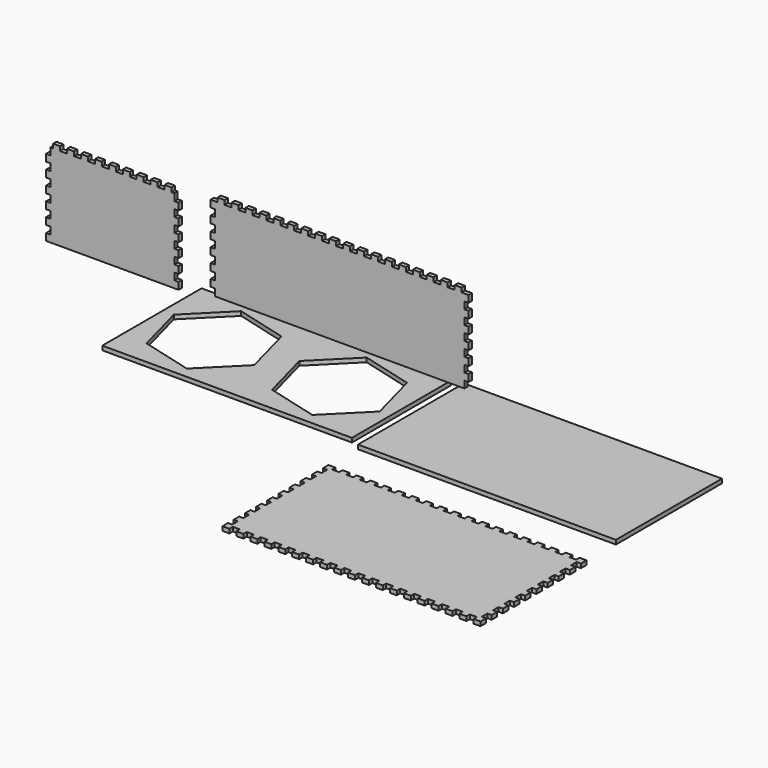
from build123d import *

# Parameters (mm, degrees)
F0_W     = 179
F0_H     = 89
F1_DEPTH = 3
F2_W     = 185
F2_H     = 95
F3_DEPTH = 3
F5_DEPTH = 3
F7_DEPTH = 3
F9_DEPTH = 3


with BuildPart() as f1:
    # F0 (on Top) → F1 (new body)
    with BuildSketch(Plane.XY):
        Rectangle(F0_W, F0_H)
        Polygon((-18.129942, 26.870058), (-8.294819, -9.835124), (-35.164876, -36.705181), (-71.870058, -26.870058), (-81.705181, 9.835124), (-54.835124, 36.705181), align=None, mode=Mode.SUBTRACT)
        Polygon((71.870058, 26.870058), (81.705181, -9.835124), (54.835124, -36.705181), (18.129942, -26.870058), (8.294819, 9.835124), (35.164876, 36.705181), align=None, mode=Mode.SUBTRACT)
    extrude(amount=F1_DEPTH)


with BuildPart() as f3:
    # F2 (on Top) → F3 (new body)
    with BuildSketch(Plane.XY):
        with Locations((189.71203, -1.240794)):
            Rectangle(F2_W, F2_H)
    extrude(amount=F3_DEPTH)


with BuildPart() as f5:
    # F4 (on Top) → F5 (new body)
    with BuildSketch(Plane.XY):
        Polygon((99.85986, -168.444727), (99.85986, -173.444727), (104.85986, -173.444727), (104.85986, -170.444727), (109.85986, -170.444727), (109.85986, -173.444727), (114.85986, -173.444727), (114.85986, -170.444727), (119.85986, -170.444727), (119.85986, -173.444727), (124.85986, -173.444727), (124.85986, -170.444727), (129.85986, -170.444727), (129.85986, -173.444727), (134.85986, -173.444727), (134.85986, -170.444727), (139.85986, -170.444727), (139.85986, -173.444727), (144.85986, -173.444727), (144.85986, -170.444727), (149.85986, -170.444727), (149.85986, -173.444727), (154.85986, -173.444727), (154.85986, -170.444727), (159.85986, -170.444727), (159.85986, -173.444727), (164.85986, -173.444727), (164.85986, -170.444727), (169.85986, -170.444727), (169.85986, -173.444727), (174.85986, -173.444727), (174.85986, -170.444727), (179.85986, -170.444727), (179.85986, -173.444727), (184.85986, -173.444727), (184.85986, -170.444727), (189.85986, -170.444727), (189.85986, -173.444727), (194.85986, -173.444727), (194.85986, -170.444727), (199.85986, -170.444727), (199.85986, -173.444727), (204.85986, -173.444727), (204.85986, -170.444727), (209.85986, -170.444727), (209.85986, -173.444727), (214.85986, -173.444727), (214.85986, -170.444727), (219.85986, -170.444727), (219.85986, -173.444727), (224.85986, -173.444727), (224.85986, -170.444727), (229.85986, -170.444727), (229.85986, -173.444727), (234.85986, -173.444727), (234.85986, -170.444727), (239.85986, -170.444727), (239.85986, -173.444727), (244.85986, -173.444727), (244.85986, -170.444727), (249.85986, -170.444727), (249.85986, -173.444727), (254.85986, -173.444727), (254.85986, -170.444727), (259.85986, -170.444727), (259.85986, -173.444727), (264.85986, -173.444727), (264.85986, -170.444727), (269.85986, -170.444727), (269.85986, -173.444727), (274.85986, -173.444727), (274.85986, -170.444727), (279.85986, -170.444727), (279.85986, -173.444727), (284.85986, -173.444727), (284.85986, -168.444727), (281.85986, -168.444727), (281.85986, -163.444727), (284.85986, -163.444727), (284.85986, -158.444727), (281.85986, -158.444727), (281.85986, -153.444727), (284.85986, -153.444727), (284.85986, -148.444727), (281.85986, -148.444727), (281.85986, -143.444727), (284.85986, -143.444727), (284.85986, -138.444727), (281.85986, -138.444727), (281.85986, -133.444727), (284.85986, -133.444727), (284.85986, -128.444727), (281.85986, -128.444727), (281.85986, -123.444727), (284.85986, -123.444727), (284.85986, -118.444727), (281.85986, -118.444727), (281.85986, -113.444727), (284.85986, -113.444727), (284.85986, -108.444727), (281.85986, -108.444727), (281.85986, -103.444727), (284.85986, -103.444727), (284.85986, -98.444727), (281.85986, -98.444727), (281.85986, -93.444727), (284.85986, -93.444727), (284.85986, -88.444727), (281.85986, -88.444727), (281.85986, -83.444727), (284.85986, -83.444727), (284.85986, -78.444727), (279.85986, -78.444727), (279.85986, -81.444727), (274.85986, -81.444727), (274.85986, -78.444727), (269.85986, -78.444727), (269.85986, -81.444727), (264.85986, -81.444727), (264.85986, -78.444727), (259.85986, -78.444727), (259.85986, -81.444727), (254.85986, -81.444727), (254.85986, -78.444727), (249.85986, -78.444727), (249.85986, -81.444727), (244.85986, -81.444727), (244.85986, -78.444727), (239.85986, -78.444727), (239.85986, -81.444727), (234.85986, -81.444727), (234.85986, -78.444727), (229.85986, -78.444727), (229.85986, -81.444727), (224.85986, -81.444727), (224.85986, -78.444727), (219.85986, -78.444727), (219.85986, -81.444727), (214.85986, -81.444727), (214.85986, -78.444727), (209.85986, -78.444727), (209.85986, -81.444727), (204.85986, -81.444727), (204.85986, -78.444727), (199.85986, -78.444727), (199.85986, -81.444727), (194.85986, -81.444727), (194.85986, -78.444727), (189.85986, -78.444727), (189.85986, -81.444727), (184.85986, -81.444727), (184.85986, -78.444727), (179.85986, -78.444727), (179.85986, -81.444727), (174.85986, -81.444727), (174.85986, -78.444727), (169.85986, -78.444727), (169.85986, -81.444727), (164.85986, -81.444727), (164.85986, -78.444727), (159.85986, -78.444727), (159.85986, -81.444727), (154.85986, -81.444727), (154.85986, -78.444727), (149.85986, -78.444727), (149.85986, -81.444727), (144.85986, -81.444727), (144.85986, -78.444727), (139.85986, -78.444727), (139.85986, -81.444727), (134.85986, -81.444727), (134.85986, -78.444727), (129.85986, -78.444727), (129.85986, -81.444727), (124.85986, -81.444727), (124.85986, -78.444727), (119.85986, -78.444727), (119.85986, -81.444727), (114.85986, -81.444727), (114.85986, -78.444727), (109.85986, -78.444727), (109.85986, -81.444727), (104.85986, -81.444727), (104.85986, -78.444727), (99.85986, -78.444727), (99.85986, -83.444727), (102.85986, -83.444727), (102.85986, -88.444727), (99.85986, -88.444727), (99.85986, -93.444727), (102.85986, -93.444727), (102.85986, -98.444727), (99.85986, -98.444727), (99.85986, -103.444727), (102.85986, -103.444727), (102.85986, -108.444727), (99.85986, -108.444727), (99.85986, -113.444727), (102.85986, -113.444727), (102.85986, -118.444727), (99.85986, -118.444727), (99.85986, -123.444727), (102.85986, -123.444727), (102.85986, -128.444727), (99.85986, -128.444727), (99.85986, -133.444727), (102.85986, -133.444727), (102.85986, -138.444727), (99.85986, -138.444727), (99.85986, -143.444727), (102.85986, -143.444727), (102.85986, -148.444727), (99.85986, -148.444727), (99.85986, -153.444727), (102.85986, -153.444727), (102.85986, -158.444727), (99.85986, -158.444727), (99.85986, -163.444727), (102.85986, -163.444727), (102.85986, -168.444727), align=None)
    extrude(amount=F5_DEPTH)


with BuildPart() as f7:
    # F6 (on Front) → F7 (new body)
    with BuildSketch(Plane.XZ):
        Polygon((-40.04842, 92.707401), (-45.04842, 92.707401), (-45.04842, 87.707401), (-42.04842, 87.707401), (-42.04842, 82.707401), (-45.04842, 82.707401), (-45.04842, 77.707401), (-42.04842, 77.707401), (-42.04842, 72.707401), (-45.04842, 72.707401), (-45.04842, 67.707401), (-42.04842, 67.707401), (-42.04842, 62.707401), (-45.04842, 62.707401), (-45.04842, 57.707401), (-42.04842, 57.707401), (-42.04842, 52.707401), (-45.04842, 52.707401), (-45.04842, 47.707401), (-42.04842, 47.707401), (-42.04842, 42.707401), (-45.04842, 42.707401), (-45.04842, 37.707401), (-42.04842, 37.707401), (-42.04842, 32.707401), (136.95158, 32.707401), (136.95158, 37.707401), (139.95158, 37.707401), (139.95158, 42.707401), (136.95158, 42.707401), (136.95158, 47.707401), (139.95158, 47.707401), (139.95158, 52.707401), (136.95158, 52.707401), (136.95158, 57.707401), (139.95158, 57.707401), (139.95158, 62.707401), (136.95158, 62.707401), (136.95158, 67.707401), (139.95158, 67.707401), (139.95158, 72.707401), (136.95158, 72.707401), (136.95158, 77.707401), (139.95158, 77.707401), (139.95158, 82.707401), (136.95158, 82.707401), (136.95158, 87.707401), (139.95158, 87.707401), (139.95158, 92.707401), (134.95158, 92.707401), (134.95158, 95.707401), (129.95158, 95.707401), (129.95158, 92.707401), (124.95158, 92.707401), (124.95158, 95.707401), (119.95158, 95.707401), (119.95158, 92.707401), (114.95158, 92.707401), (114.95158, 95.707401), (109.95158, 95.707401), (109.95158, 92.707401), (104.95158, 92.707401), (104.95158, 95.707401), (99.95158, 95.707401), (99.95158, 92.707401), (94.95158, 92.707401), (94.95158, 95.707401), (89.95158, 95.707401), (89.95158, 92.707401), (84.95158, 92.707401), (84.95158, 95.707401), (79.95158, 95.707401), (79.95158, 92.707401), (74.95158, 92.707401), (74.95158, 95.707401), (69.95158, 95.707401), (69.95158, 92.707401), (64.95158, 92.707401), (64.95158, 95.707401), (59.95158, 95.707401), (59.95158, 92.707401), (54.95158, 92.707401), (54.95158, 95.707401), (49.95158, 95.707401), (49.95158, 92.707401), (44.95158, 92.707401), (44.95158, 95.707401), (39.95158, 95.707401), (39.95158, 92.707401), (34.95158, 92.707401), (34.95158, 95.707401), (29.95158, 95.707401), (29.95158, 92.707401), (24.95158, 92.707401), (24.95158, 95.707401), (19.95158, 95.707401), (19.95158, 92.707401), (14.95158, 92.707401), (14.95158, 95.707401), (9.95158, 95.707401), (9.95158, 92.707401), (4.95158, 92.707401), (4.95158, 95.707401), (-0.04842, 95.707401), (-0.04842, 92.707401), (-5.04842, 92.707401), (-5.04842, 95.707401), (-10.04842, 95.707401), (-10.04842, 92.707401), (-15.04842, 92.707401), (-15.04842, 95.707401), (-20.04842, 95.707401), (-20.04842, 92.707401), (-25.04842, 92.707401), (-25.04842, 95.707401), (-30.04842, 95.707401), (-30.04842, 92.707401), (-35.04842, 92.707401), (-35.04842, 95.707401), (-40.04842, 95.707401), align=None)
    extrude(amount=F7_DEPTH)


with BuildPart() as f9:
    # F8 (on Front) → F9 (new body)
    with BuildSketch(Plane.XZ):
        Polygon((-158.002626, 91.32189), (-158.002626, 88.32189), (-160.002626, 88.32189), (-160.002626, 83.32189), (-163.002626, 83.32189), (-163.002626, 78.32189), (-160.002626, 78.32189), (-160.002626, 73.32189), (-163.002626, 73.32189), (-163.002626, 68.32189), (-160.002626, 68.32189), (-160.002626, 63.32189), (-163.002626, 63.32189), (-163.002626, 58.32189), (-160.002626, 58.32189), (-160.002626, 53.32189), (-163.002626, 53.32189), (-163.002626, 48.32189), (-160.002626, 48.32189), (-160.002626, 43.32189), (-163.002626, 43.32189), (-163.002626, 38.32189), (-160.002626, 38.32189), (-160.002626, 33.32189), (-163.002626, 33.32189), (-163.002626, 28.32189), (-68.002626, 28.32189), (-68.002626, 33.32189), (-71.002626, 33.32189), (-71.002626, 38.32189), (-68.002626, 38.32189), (-68.002626, 43.32189), (-71.002626, 43.32189), (-71.002626, 48.32189), (-68.002626, 48.32189), (-68.002626, 53.32189), (-71.002626, 53.32189), (-71.002626, 58.32189), (-68.002626, 58.32189), (-68.002626, 63.32189), (-71.002626, 63.32189), (-71.002626, 68.32189), (-68.002626, 68.32189), (-68.002626, 73.32189), (-71.002626, 73.32189), (-71.002626, 78.32189), (-68.002626, 78.32189), (-68.002626, 83.32189), (-71.002626, 83.32189), (-71.002626, 88.32189), (-73.002626, 88.32189), (-73.002626, 91.32189), (-78.002626, 91.32189), (-78.002626, 88.32189), (-83.002626, 88.32189), (-83.002626, 91.32189), (-88.002626, 91.32189), (-88.002626, 88.32189), (-93.002626, 88.32189), (-93.002626, 91.32189), (-98.002626, 91.32189), (-98.002626, 88.32189), (-103.002626, 88.32189), (-103.002626, 91.32189), (-108.002626, 91.32189), (-108.002626, 88.32189), (-113.002626, 88.32189), (-113.002626, 91.32189), (-118.002626, 91.32189), (-118.002626, 88.32189), (-123.002626, 88.32189), (-123.002626, 91.32189), (-128.002626, 91.32189), (-128.002626, 88.32189), (-133.002626, 88.32189), (-133.002626, 91.32189), (-138.002626, 91.32189), (-138.002626, 88.32189), (-143.002626, 88.32189), (-143.002626, 91.32189), (-148.002626, 91.32189), (-148.002626, 88.32189), (-153.002626, 88.32189), (-153.002626, 91.32189), align=None)
    extrude(amount=F9_DEPTH)


solid = Compound([f1.part, f3.part, f5.part, f7.part, f9.part])
